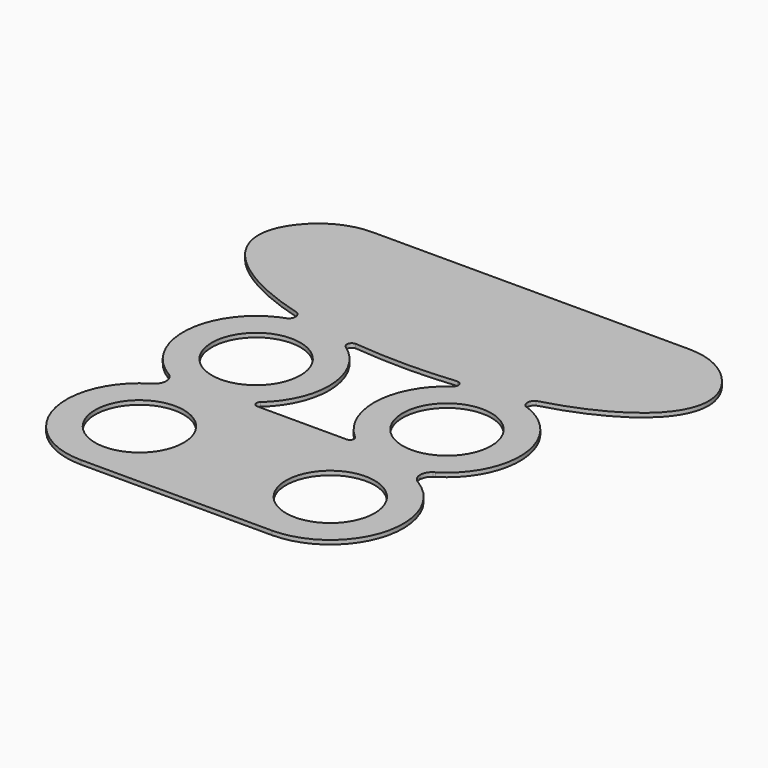
from build123d import *

# Parameters (mm, degrees)
F0_R     = 3.25
F1_DEPTH = 0.3
F2_R     = 5
F3_R     = 0.3
F4_W     = 22
F4_H     = 0.1
F5_DEPTH = 0.05


with BuildPart() as f1:
    # F0 (on Top) → F1 (new body)
    with BuildSketch(Plane.XY):
        with BuildLine():
            Line((13.2, 4.35), (-13.2, 4.35))
            add(Edge.make_bspline(
                [(-13.2, 4.35), (-23.9595582635, -1.9535795887), (-8.7692884448, -6.141299865)],
                knots=[2.4980915448, 2.4980915448, 2.4980915448, 4.1520515858, 4.1520515858, 4.1520515858], degree=2, weights=[1, 0.6771012168, 1]))
            ThreePointArc((-8.7692884448, -6.141299865), (-8.5065273892, -6.5651174574), (-8.6965923284, -7.0261381108))
            ThreePointArc((-8.6965923284, -7.0261381108), (-12.3142829071, -11.4828313169), (-9.8142494559, -16.65))
            ThreePointArc((-9.8142494559, -16.65), (-9.7441006003, -16.6877931911), (-9.6776213413, -16.7317214891))
            ThreePointArc((-9.6776213413, -16.7317214891), (-9.3154283119, -17.5296015758), (-9.8142494559, -18.25))
            ThreePointArc((-9.8142494559, -18.25), (-12.1461150395, -24.2628738838), (-7, -28.15))
            Line((-7, -28.15), (7, -28.15))
            ThreePointArc((7, -28.15), (12.1461150395, -24.2628738838), (9.8142494559, -18.25))
            ThreePointArc((9.8142494559, -18.25), (9.7441006003, -18.2122068089), (9.6776213413, -18.1682785109))
            ThreePointArc((9.6776213413, -18.1682785109), (9.3118539071, -17.45), (9.6776213413, -16.7317214891))
            ThreePointArc((9.6776213413, -16.7317214891), (9.7441006003, -16.6877931911), (9.8142494559, -16.65))
            ThreePointArc((9.8142494559, -16.65), (12.3142829071, -11.4828313169), (8.6965923284, -7.0261381108))
            ThreePointArc((8.6965923284, -7.0261381108), (8.5065273892, -6.5651174574), (8.7692884448, -6.141299865))
            add(Edge.make_bspline(
                [(8.7692884448, -6.141299865), (23.9595582635, -1.9535795887), (13.2, 4.35)],
                knots=[5.272726375, 5.272726375, 5.272726375, 6.926686416, 6.926686416, 6.926686416], degree=2, weights=[1, 0.6771012168, 1]))
        make_face()
        with Locations((-7, -22.8)):
            Circle(F0_R, mode=Mode.SUBTRACT)
        with Locations((-7, -12.1)):
            Circle(F0_R, mode=Mode.SUBTRACT)
        with Locations((7, -22.8)):
            Circle(F0_R, mode=Mode.SUBTRACT)
        with Locations((7, -12.1)):
            Circle(F0_R, mode=Mode.SUBTRACT)
        with BuildLine():
            ThreePointArc((-3.9615510182, -7.6965550094), (-4.0576261026, -7.3030225288), (-3.7319495204, -7.0621221367))
            add(Edge.make_bspline(
                [(-3.7319495204, -7.0621221367), (0, -7.4428760906), (3.7319495204, -7.0621221367)],
                knots=[4.4842359958, 4.4842359958, 4.4842359958, 4.9405419649, 4.9405419649, 4.9405419649], degree=2, weights=[1, 0.974085812, 1]))
            ThreePointArc((3.7319495204, -7.0621221367), (4.0576261026, -7.3030225288), (3.9615510182, -7.6965550094))
            ThreePointArc((3.9615510182, -7.6965550094), (1.6516765197, -12.233925164), (4.1857505441, -16.65))
            Line((4.1857505441, -16.65), (-4.1857505441, -16.65))
            ThreePointArc((-4.1857505441, -16.65), (-1.6516765197, -12.233925164), (-3.9615510182, -7.6965550094))
        make_face(mode=Mode.SUBTRACT)
    extrude(amount=F1_DEPTH)

    # F2
    f2_edges = [f1.edges().sort_by_distance(p)[0] for p in [
        (13.2, 4.35, 0.15),
        (-13.2, 4.35, 0.15),
    ]]
    fillet(f2_edges, radius=F2_R)

    # F3
    f3_edges = [f1.edges().sort_by_distance(p)[0] for p in [
        (-4.185751, -16.65, 0.15),
        (4.185751, -16.65, 0.15),
    ]]
    fillet(f3_edges, radius=F3_R)

    # F4 (on face) → F5 (cut)
    with BuildSketch(Plane(origin=(0, 0, 0), x_dir=(1, 0, 0), z_dir=(0, 0, -1))):
        with Locations((0, 17.45)):
            Rectangle(F4_W, F4_H)
    extrude(amount=-F5_DEPTH, mode=Mode.SUBTRACT)


solid = f1.part
